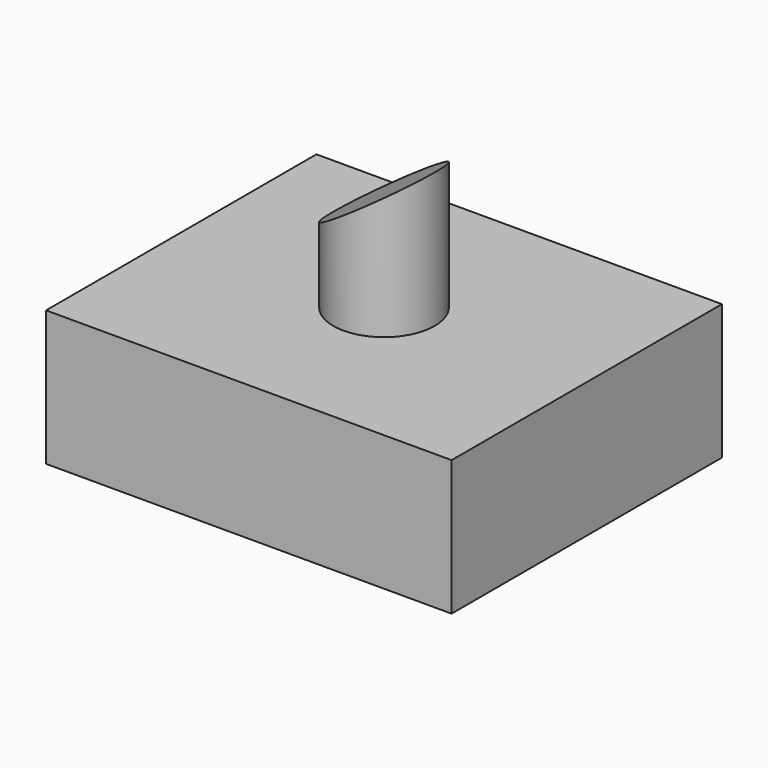
from build123d import *

# Parameters (mm, degrees)
F0_W     = 76.2
F0_H     = 63.5
F1_DEPTH = 25.4
F2_R     = 9.525
F3_DEPTH = 25.4
F5_DEPTH = 19.05


with BuildPart() as f1:
    # F0 (on Top) → F1 (new body)
    with BuildSketch(Plane.XY):
        Rectangle(F0_W, F0_H)
    extrude(amount=F1_DEPTH)

    # F2 (on face) → F3 (join)
    with BuildSketch(Plane.XY.offset(25.4)):
        Circle(F2_R)
    extrude(amount=F3_DEPTH)

    # F4 (on Front) → F5 (cut, symmetric)
    with BuildSketch(Plane.XZ):
        Polygon((9.525, 50.8), (-9.525, 50.8), (-9.525, 38.1), align=None)
    extrude(amount=F5_DEPTH, both=True, mode=Mode.SUBTRACT)


solid = f1.part
